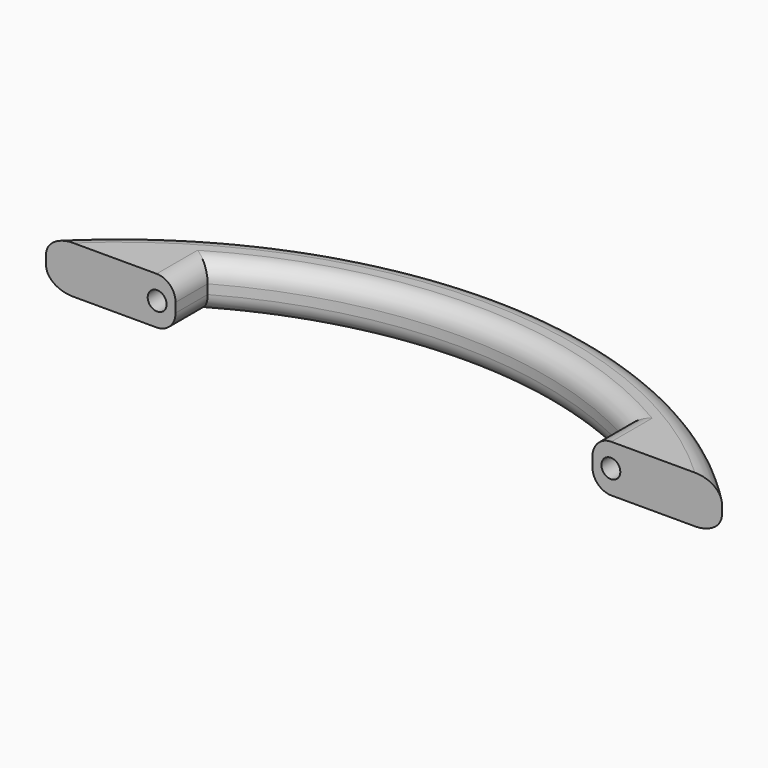
from build123d import *

# Parameters (mm, degrees)
F1_DEPTH = 10
F2_R     = 4
F3_R     = 2
F4_DEPTH = 13


with BuildPart() as f1:
    # F0 (on Top) → F1 (new body)
    with BuildSketch(Plane.XY):
        with BuildLine():
            Line((44.1, 0), (71.5, 0))
            ThreePointArc((71.5, 0), (0, 30), (-71.5, 0))
            Line((-71.5, 0), (-44.1, 0))
            Line((-44.1, 0), (-44.1, 8.484979))
            ThreePointArc((-44.1, 8.484979), (0, 20), (44.1, 8.484979))
            Line((44.1, 8.484979), (44.1, 0))
        make_face()
    extrude(amount=F1_DEPTH)

    # F2
    f2_edges = [f1.edges().sort_by_distance(p)[0] for p in [
        (0, 20, 10),
        (0, 30, 10),
        (0, 20, 0),
        (0, 30, 0),
        (-44.1, 4.24249, 0),
        (-44.1, 4.24249, 10),
        (44.1, 4.24249, 0),
        (44.1, 4.24249, 10),
    ]]
    fillet(f2_edges, radius=F2_R)

    # F3 (on face) → F4 (cut)
    with BuildSketch(Plane.XZ):
        with Locations((48, 5)):
            Circle(F3_R)
        with Locations((-48, 5)):
            Circle(F3_R)
    extrude(amount=-F4_DEPTH, mode=Mode.SUBTRACT)


solid = f1.part
